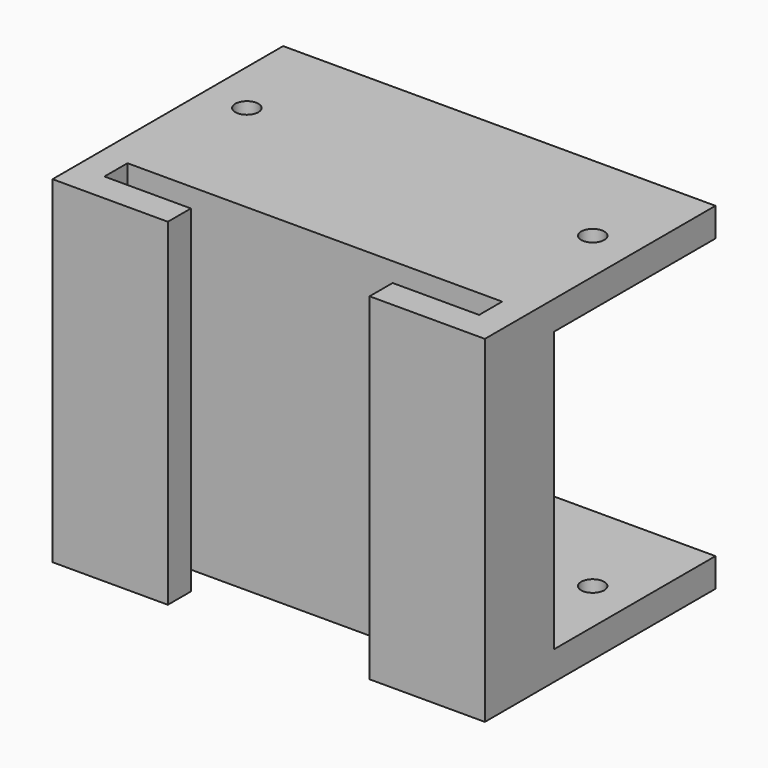
from build123d import *

# Parameters (mm, degrees)
F1_DEPTH = 117
F2_W     = 150
F2_H     = 10
F3_DEPTH = 70
F4_R     = 4
F5_DEPTH = 139.1


with BuildPart() as f1:
    # F0 (on Top) → F1 (new body)
    with BuildSketch(Plane.XY):
        Polygon((-75, -30), (-35, -30), (-35, -20), (-65, -20), (-65, -10), (65, -10), (65, -20), (35, -20), (35, -30), (75, -30), (75, 0), (-75, 0), align=None)
    extrude(amount=F1_DEPTH)

    # F2 (on face) → F3 (join)
    with BuildSketch(Plane(origin=(0, 0, 0), x_dir=(-1, 0, 0), z_dir=(0, 1, 0))):
        with Locations((0, 112)):
            Rectangle(F2_W, F2_H)
        with Locations((0, 5)):
            Rectangle(F2_W, F2_H)
    extrude(amount=F3_DEPTH)

    # F4 (on face) → F5 (cut)
    with BuildSketch(Plane(origin=(0, 0, 0), x_dir=(1, 0, 0), z_dir=(0, 0, -1))):
        with Locations((-60, -35.509091)):
            Circle(F4_R)
        with Locations((60, -35.509091)):
            Circle(F4_R)
    extrude(amount=-F5_DEPTH, mode=Mode.SUBTRACT)


solid = f1.part
